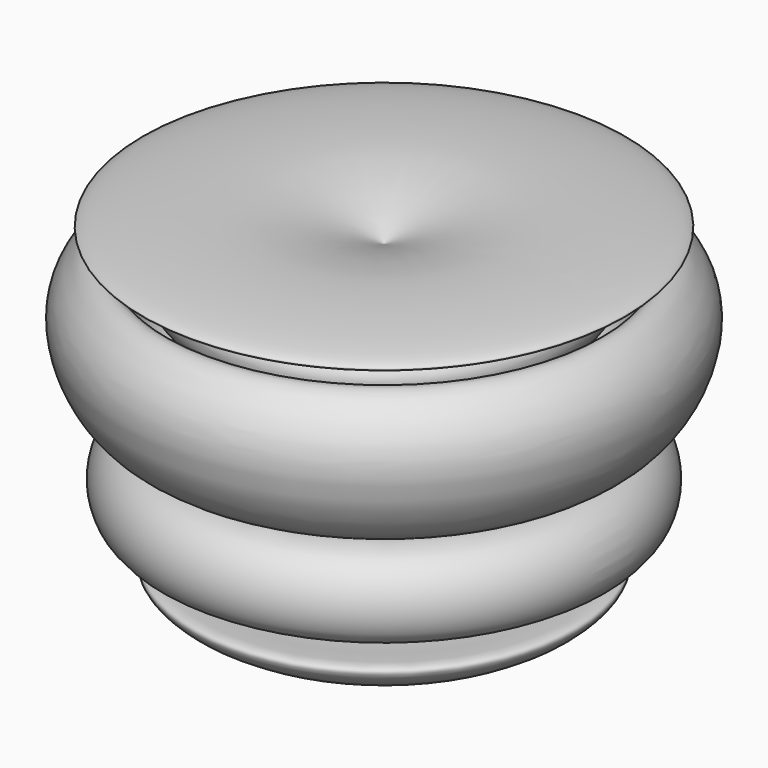
from build123d import *


with BuildPart() as f1:
    # F0 (on Front) → F1 (revolve)
    with BuildSketch(Plane.XZ):
        with BuildLine():
            add(Edge.make_bspline(
                [(-57.7412061393, 68.7770694494), (-51.240453287, 71.3484626505), (-37.9030967427, 76.6240959067), (12.1019927355, 71.6589232893), (-41.5074064347, 67.5974508399), (-52.0364472516, 60.4308856929), (-42.4354100409, 58.4861656123), (-32.777578984, 66.3668910391), (-15.9700779627, 68.8628227578), (-20.0753613381, 53.8683131071), (-35.9787284346, 60.425584354), (-37.2658215487, 45.8752134415), (-13.2250169449, 43.0065967134), (-15.3660122035, 73.1269081651), (1.3008895268, 59.5240996333), (-5.7051787966, 39.8872859292), (-18.6299800793, 34.6186362978), (-40.1801910019, 40.1185185973), (-45.8643109084, 57.2605122768), (-53.9351900116, 40.5371171247), (-46.3059881669, 13.5219053184), (-43.8912530989, 43.5907454863), (-31.7961940126, 33.71386735), (-32.4811488131, 15.8531785061), (-24.4283468238, 36.755983101), (-10.7485005484, 34.3819272672), (-7.4025527063, 23.4604690167), (-13.6374850566, 15.2854118265), (-21.4563936554, 25.7693904709), (-28.0662951719, 19.1237677774), (-29.0378591942, 14.8647565346), (-31.7199584427, 8.8334739065), (-11.2194296832, 14.0149153095), (-24.773724341, 2.1243241626), (-34.6939447532, 5.2650225559), (-36.7765393905, 16.364779646), (-39.4313887758, 20.3995583769), (-47.7784304469, 18.251488822), (-53.7759380676, 15.4296691528), (-51.0371161878, 11.056318553), (-44.0977641021, 15.8933568461), (-40.2997557599, 13.3232921022), (-37.7242417447, 13.4393893508), (-37.6591517546, 11.4509623167), (-37.5176070151, 10.203488755), (-41.7644315855, 10.7871279657), (-44.0747344796, 10.5605044236), (-45.7305307074, 10.8330033216), (-48.1086515245, 9.8060100893), (-49.6348067812, 9.3226440695), (-51.0157835867, 7.3723880924), (-46.5471085836, 7.3463300049), (-43.4132893394, 7.0002643882), (-41.0928194758, 7.2073685406), (-40.6351981852, 5.8372104509), (-43.8406511923, 4.3046570009), (-46.8966214785, 5.189755361), (-53.4553924211, 3.7196213), (-57.7412061393, 2.7589655947)],
                knots=[0, 0, 0, 0, 0.0314054675, 0.0644334475, 0.1019013858, 0.1213071823, 0.1360605556, 0.1596606833, 0.1820090659, 0.2002682156, 0.2228261419, 0.2406437533, 0.2659867031, 0.2939197435, 0.3150305391, 0.342238905, 0.3650762393, 0.3941848886, 0.4155321123, 0.4386172853, 0.4645204334, 0.4892664721, 0.5085419873, 0.5292028295, 0.5523856943, 0.5732725619, 0.5932992223, 0.6097088964, 0.6290128643, 0.6455905772, 0.6599466343, 0.6715550495, 0.6935459292, 0.7129345023, 0.7322971599, 0.7527793686, 0.765322977, 0.7834806458, 0.7986016029, 0.8089850507, 0.8259714924, 0.8390526121, 0.8481497568, 0.8562346763, 0.8619515809, 0.8742238639, 0.8843751298, 0.8923384337, 0.9023517652, 0.9107719348, 0.9180640205, 0.9297617758, 0.9420425488, 0.9509679723, 0.9566848738, 0.9675032641, 0.978765083, 1, 1, 1, 1], degree=3))
            Line((-57.7412061393, 68.7770694494), (-57.7412061393, 2.7589655947))
        make_face()
    revolve(axis=Axis((-57.7412061393, 0, 35.7680175221), (0, 0, -1)))


solid = f1.part
